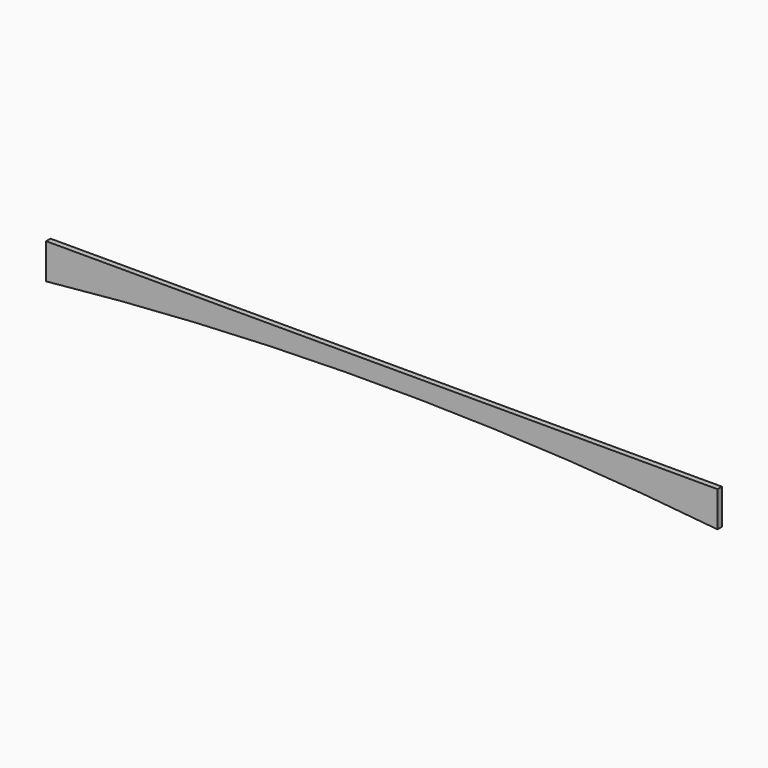
from build123d import *

# Parameters (mm, degrees)
F1_DEPTH = 25.4
F4_DEPTH = 15.875


with BuildPart() as f1:
    # F0 (on Front) → F1 (new body)
    with BuildSketch(Plane.XZ):
        with BuildLine():
            Line((1863.8208496928, 32.7376453102), (-63.4041503072, 32.7376453102))
            Line((-63.4041503072, 32.7376453102), (-63.4041503072, -43.4623546898))
            ThreePointArc((-63.4041503072, -43.4623546898), (900.2083496928, 7.3376453102), (1863.8208496928, -43.4623546898))
            Line((1863.8208496928, -43.4623546898), (1863.8208496928, 32.7376453102))
        make_face()
    extrude(amount=F1_DEPTH)


with BuildPart() as f4:
    # F3 (on Front) → F4 (new body)
    with BuildSketch(Plane.XZ):
        with BuildLine():
            Line((1858.7887722611, 30.7600510478), (-68.4362277389, 30.7600510478))
            Line((-68.4362277389, 30.7600510478), (-68.4362277389, -70.8399489522))
            ThreePointArc((-68.4362277389, -70.8399489521), (895.1762722611, -20.0399489521), (1858.7887722611, -70.8399489521))
            Line((1858.7887722611, -70.8399489522), (1858.7887722611, 30.7600510478))
        make_face()
    extrude(amount=F4_DEPTH)


solid = f4.part
